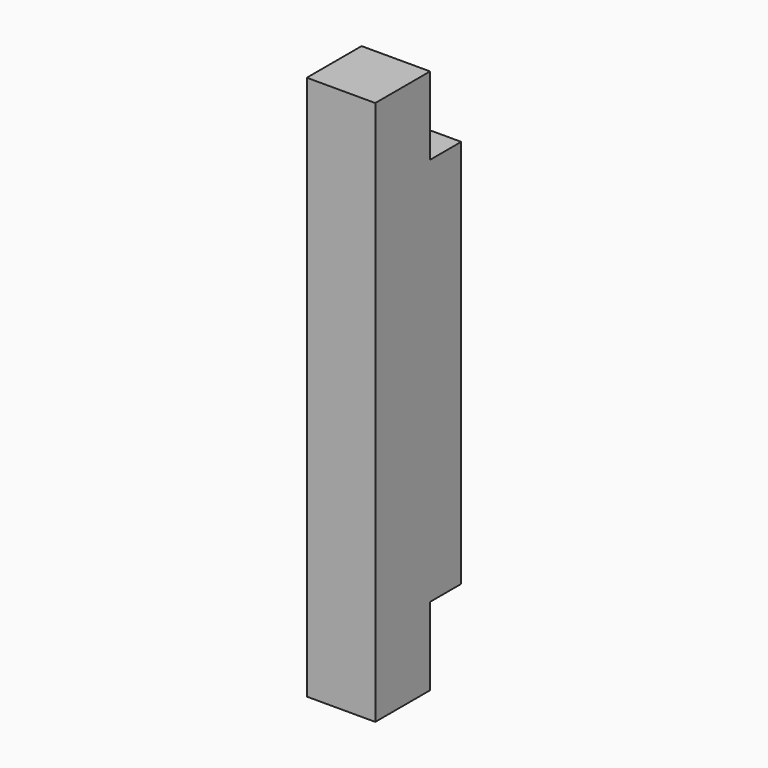
from build123d import *

# Parameters (mm, degrees)
F0_W     = 44
F0_H     = 69
F1_DEPTH = 350
F2_W     = 25
F2_H     = 50
F3_DEPTH = 44.001


with BuildPart() as f1:
    # F0 (on Top) → F1 (new body)
    with BuildSketch(Plane.XY):
        Rectangle(F0_W, F0_H)
    extrude(amount=F1_DEPTH)

    # F2 (on face) → F3 (cut, through all)
    with BuildSketch(Plane.YZ.offset(22)):
        with Locations((22, 25)):
            Rectangle(F2_W, F2_H)
        with Locations((22, 325)):
            Rectangle(F2_W, F2_H)
    extrude(amount=-F3_DEPTH, mode=Mode.SUBTRACT)


solid = f1.part
